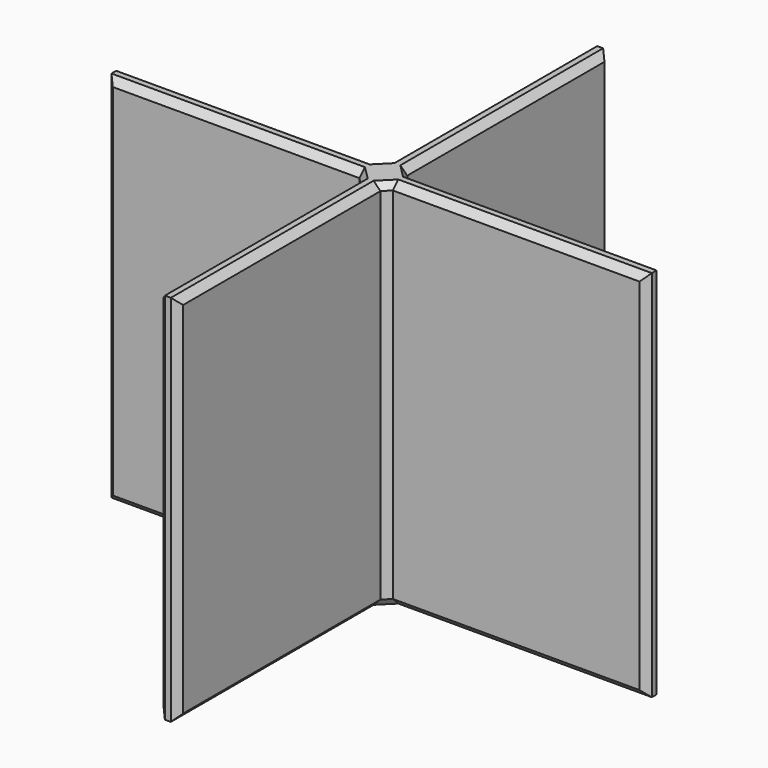
from build123d import *

# Parameters (mm, degrees)
F0_W     = 2
F0_H     = 55
F1_DEPTH = 38
F7_COUNT = 4
F9_SIZE  = 0.7


with BuildPart() as f1:
    # F0 (on Top) → F1 (new body)
    with BuildSketch(Plane.XY):
        with Locations((-1, 27.5)):
            Rectangle(F0_W, F0_H)
    extrude(amount=F1_DEPTH)


with BuildPart() as f1_1:
    # F3: moved
    add(f1.part.moved(Location((1, 0, 0))))


with BuildPart() as f1_2:
    # F5: moved
    add(f1_1.part.moved(Location((0, -27.5, 0))))


with BuildPart() as f7_1:
    # F7: instance of F1
    add(f1_2.part.rotate(Axis((0, 0, 29.2499251664), (0, 0, 1)), 1 * 360 / F7_COUNT))


with BuildPart() as f7_2:
    # F7: instance of F1
    add(f1_2.part.rotate(Axis((0, 0, 29.2499251664), (0, 0, 1)), 2 * 360 / F7_COUNT))


with BuildPart() as f7_3:
    # F7: instance of F1
    add(f1_2.part.rotate(Axis((0, 0, 29.2499251664), (0, 0, 1)), 3 * 360 / F7_COUNT))


with BuildPart() as f1_3:
    add(f1_2.part)

    # F8: union F7_1, F7_2, F7_3
    add(f7_1.part)
    add(f7_2.part)
    add(f7_3.part)

    # F9
    f9_edges = [f1_3.edges().sort_by_distance(p)[0] for p in [
        (14.25, 1, 0),
        (1, 1, 19),
        (14.25, 1, 38),
        (27.5, 1, 19),
        (1, 14.25, 0),
        (1, 27.5, 19),
        (1, 14.25, 38),
        (-14.25, 1, 0),
        (-27.5, 1, 19),
        (-14.25, 1, 38),
        (-1, 1, 19),
        (-1, 14.25, 0),
        (-1, 14.25, 38),
        (-1, 27.5, 19),
        (-1, -14.25, 0),
        (-1, -27.5, 19),
        (-1, -14.25, 38),
        (-1, -1, 19),
        (-14.25, -1, 0),
        (-14.25, -1, 38),
        (-27.5, -1, 19),
        (1, -14.25, 0),
        (1, -1, 19),
        (1, -14.25, 38),
        (1, -27.5, 19),
        (14.25, -1, 0),
        (27.5, -1, 19),
        (14.25, -1, 38),
    ]]
    chamfer(f9_edges, length=F9_SIZE)


solid = f1_3.part
